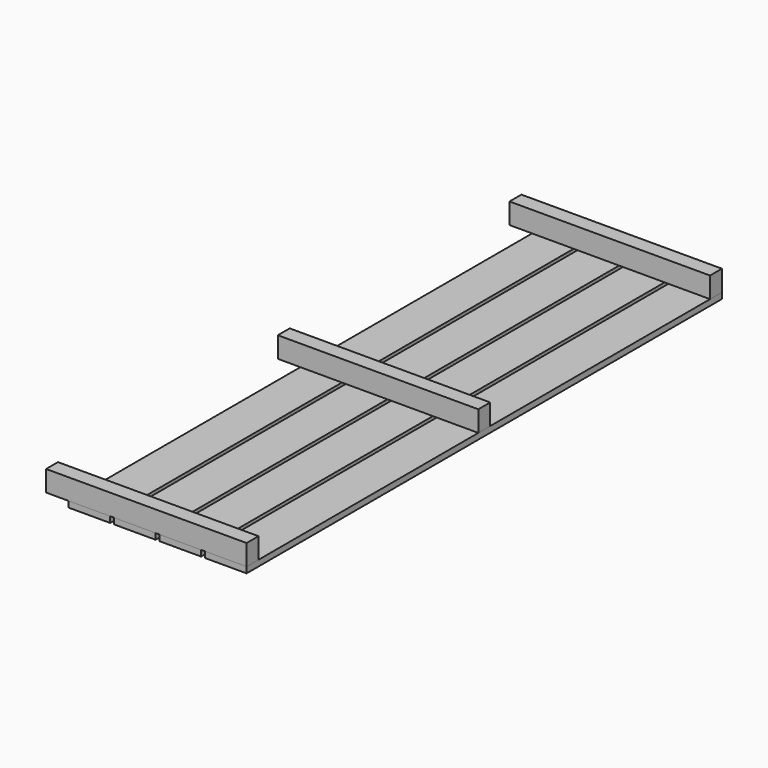
from build123d import *

# Parameters (mm, degrees)
F0_W     = 140
F0_H     = 20
F1_DEPTH = 2000
F2_W     = 50
F2_H     = 70
F3_W     = 50
F3_H     = 70
F4_DEPTH = 675


with BuildPart() as f1:
    # F0 (on Front) → F1 (new body)
    with BuildSketch(Plane.XZ):
        with Locations((70, 10)):
            Rectangle(F0_W, F0_H)
        with Locations((223, 10)):
            Rectangle(F0_W, F0_H)
        with Locations((376, 10)):
            Rectangle(F0_W, F0_H)
        with Locations((-83, 10)):
            Rectangle(F0_W, F0_H)
    extrude(amount=F1_DEPTH)


with BuildPart() as f4:
    # F2 (on face) + F3 (on face) → F4 (new body)
    with BuildSketch(Plane.YZ.offset(446)):
        with Locations((-1975, 55)):
            Rectangle(F2_W, F2_H)
        with Locations((-25, 55)):
            Rectangle(F2_W, F2_H)
    with BuildSketch(Plane.YZ.offset(446)):
        with Locations((-1000, 55)):
            Rectangle(F3_W, F3_H)
    extrude(amount=-F4_DEPTH)


solid = Compound([f1.part, f4.part])
